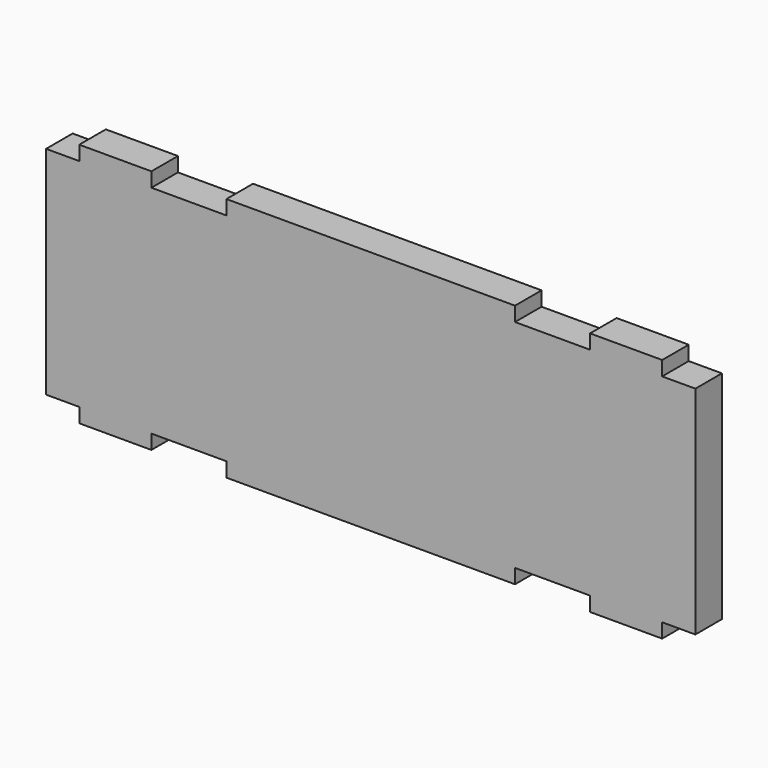
from build123d import *

# Parameters (mm, degrees)
F0_W     = 50.8
F0_H     = 2.54
F0_W_2   = 12.7
F1_DEPTH = 5.842


with BuildPart() as f1:
    # F0 (on Front) → F1 (new body)
    with BuildSketch(Plane.XZ):
        Polygon((-82.135126, -33.381824), (-87.977126, -33.381824), (-87.977126, -71.481824), (-82.135126, -71.481824), (-69.435126, -71.481824), (-56.227126, -71.481824), (-5.427126, -71.481824), (7.780874, -71.481824), (20.480874, -71.481824), (26.322874, -71.481824), (26.322874, -33.381824), (20.480874, -33.381824), (7.780874, -33.381824), (-5.427126, -33.381824), (-56.227126, -33.381824), (-69.435126, -33.381824), align=None)
        with Locations((-30.827126, -32.111824)):
            Rectangle(F0_W, F0_H)
        with Locations((-30.827126, -72.751824)):
            Rectangle(F0_W, F0_H)
        with Locations((-75.785126, -32.111824)):
            Rectangle(F0_W_2, F0_H)
        with Locations((-75.785126, -72.751824)):
            Rectangle(F0_W_2, F0_H)
        with Locations((14.130874, -32.111824)):
            Rectangle(F0_W_2, F0_H)
        with Locations((14.130874, -72.751824)):
            Rectangle(F0_W_2, F0_H)
    extrude(amount=F1_DEPTH)


solid = f1.part
